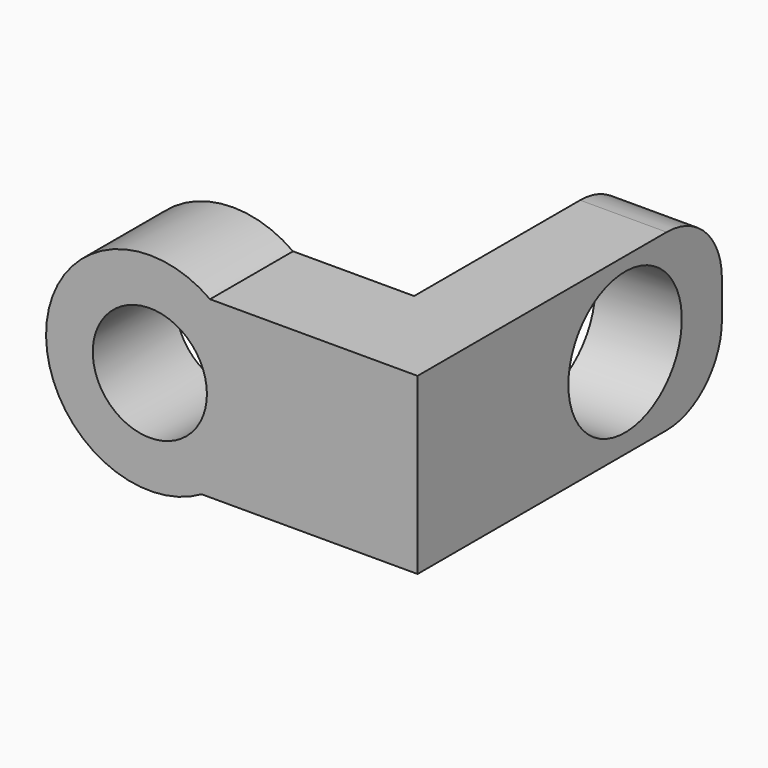
from build123d import *

# Parameters (mm, degrees)
F0_R          = 3
F0_R_2        = 1.65
F1_DEPTH      = 1.5
F1_DEPTH_BACK = 1.5
F3_DEPTH      = 1.5
F3_DEPTH_BACK = 1.5
F4_W          = 2.5
F4_H          = 5.04355
F5_DEPTH      = 8
F6_R          = 2.05
F7_DEPTH      = 25
F8_R          = 2


with BuildPart() as f1:
    # F0 (on Front) → F1 (new body, two sides)
    with BuildSketch(Plane.XZ) as f1_sk:
        Circle(F0_R)
        Circle(F0_R_2, mode=Mode.SUBTRACT)
    extrude(amount=F1_DEPTH)
    extrude(f1_sk.sketch, amount=-F1_DEPTH_BACK)

    # F2 (on Front) → F3 (join, two sides)
    with BuildSketch(Plane.XZ) as f3_sk:
        with BuildLine():
            Line((7.740623, 2.443406), (1.740623, 2.443406))
            ThreePointArc((1.740623, 2.443406), (2.666633, 1.374433), (3, 0))
            ThreePointArc((3, 0), (2.59704, -1.501793), (1.496413, -2.600144))
            Line((1.496413, -2.600144), (7.740623, -2.600144))
            Line((7.740623, -2.600144), (7.740623, 2.443406))
        make_face()
    extrude(amount=F3_DEPTH)
    extrude(f3_sk.sketch, amount=-F3_DEPTH_BACK)

    # F4 (on face) → F5 (join)
    with BuildSketch(Plane(origin=(0, 1.5, 0), x_dir=(-1, 0, 0), z_dir=(0, 1, 0))):
        with Locations((-6.490623, -0.078369)):
            Rectangle(F4_W, F4_H)
    extrude(amount=F5_DEPTH)

    # F6 (on face) → F7 (cut)
    with BuildSketch(Plane(origin=(5.240623, 0, 0), x_dir=(0, -1, 0), z_dir=(-1, 0, 0))):
        with Locations((-6, 0)):
            Circle(F6_R)
    extrude(amount=-F7_DEPTH, mode=Mode.SUBTRACT)

    # F8
    f8_edges = [f1.edges().sort_by_distance(p)[0] for p in [
        (6.490623, 9.5, -2.600144),
        (6.490623, 9.5, 2.443406),
    ]]
    fillet(f8_edges, radius=F8_R)


solid = f1.part
